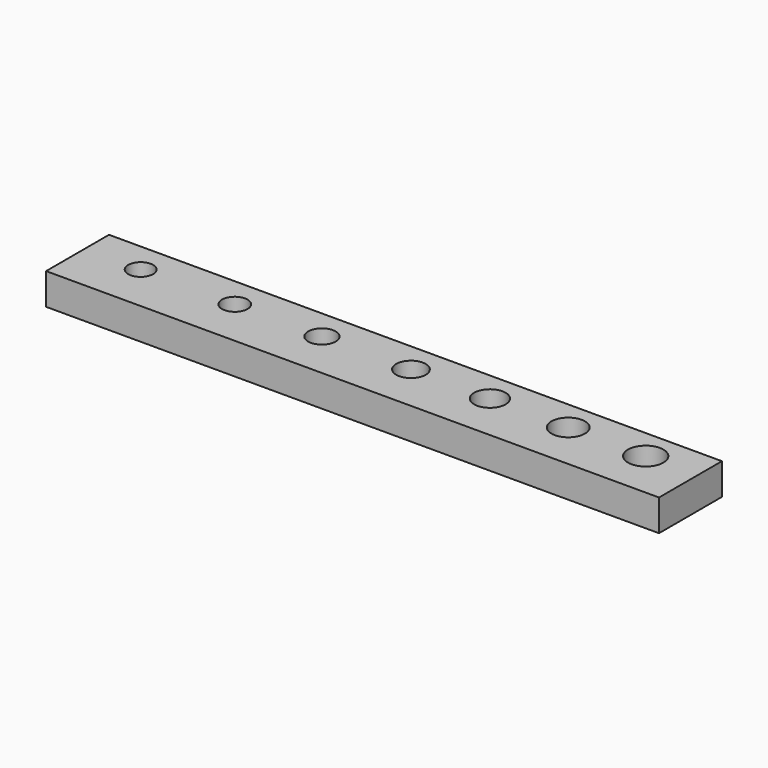
from build123d import *

# Parameters (mm, degrees)
F0_W     = 155.844581
F0_H     = 20
F0_R     = 3.175
F0_R_2   = 3.25
F0_R_3   = 3.5
F0_R_4   = 3.75
F0_R_5   = 4
F0_R_6   = 4.25
F0_R_7   = 4.5
F1_DEPTH = 8


with BuildPart() as f1:
    # F0 (on Top) → F1 (new body)
    with BuildSketch(Plane.XY):
        with Locations((-12.07771, 10)):
            Rectangle(F0_W, F0_H)
        with Locations((-75.752057, 12.257112)):
            Circle(F0_R, mode=Mode.SUBTRACT)
        with Locations((-51.826391, 12.257112)):
            Circle(F0_R_2, mode=Mode.SUBTRACT)
        with Locations((-29.667057, 12.257112)):
            Circle(F0_R_3, mode=Mode.SUBTRACT)
        with Locations((-7.025996, 12.257112)):
            Circle(F0_R_4, mode=Mode.SUBTRACT)
        with Locations((13.045867, 12.257112)):
            Circle(F0_R_5, mode=Mode.SUBTRACT)
        with Locations((32.957155, 12.257112)):
            Circle(F0_R_6, mode=Mode.SUBTRACT)
        with Locations((52.658375, 12.257112)):
            Circle(F0_R_7, mode=Mode.SUBTRACT)
    extrude(amount=F1_DEPTH)


solid = f1.part
